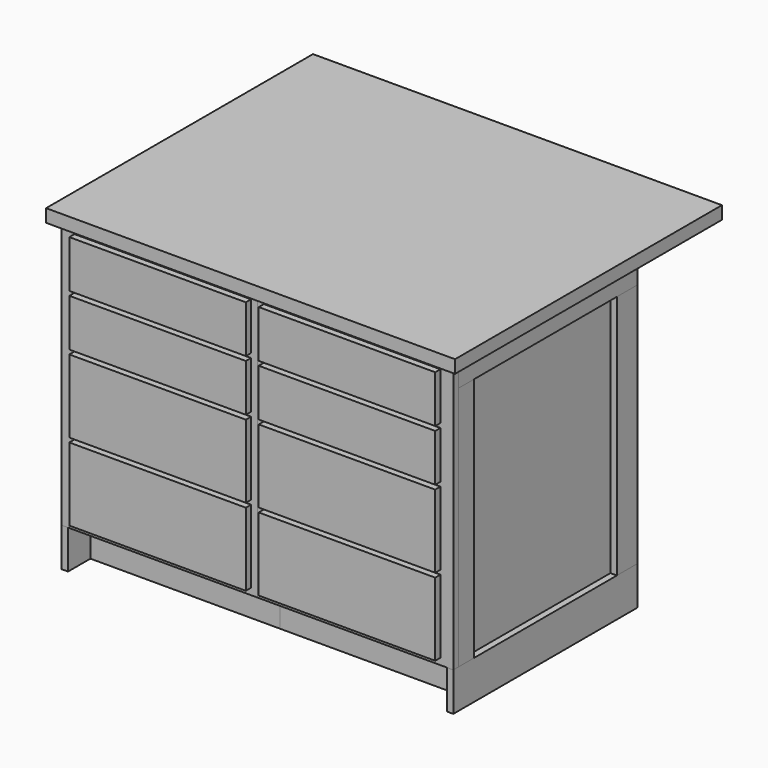
from build123d import *

# Parameters (mm, degrees)
F0_W      = 558.8
F0_H      = 660.4
F1_DEPTH  = 901.7
F2_DEPTH  = 901.7
F3_W      = 558.8
F3_H      = 114.3
F4_DEPTH  = 82.55
F5_W      = 19.05
F5_H      = 787.4
F6_DEPTH  = 19.05
F7_W      = 19.05
F7_H      = 787.4
F8_DEPTH  = 19.05
F9_W      = 19.05
F9_H      = 63.5
F9_H_2    = 114.3
F10_DEPTH = 19.05
F9_W_2    = 57.15
F9_H_3    = 723.9
F11_DEPTH = 19.05
F14_DEPTH = 19.05
F13_W     = 44.45
F13_H     = 723.9
F13_W_2   = 31.75
F15_DEPTH = 19.05
F16_W     = 1206.5
F16_H     = 984.25
F16_W_2   = 558.8
F16_H_2   = 660.4
F17_DEPTH = 38.1
F18_W     = 520.7
F18_H     = 139.7
F18_H_2   = 215.9
F19_DEPTH = 19.05


with BuildPart() as f1:
    # F0 (on Top) → F1 (new body)
    with BuildSketch(Plane.XY):
        with Locations((-279.4, -1.352771)):
            Rectangle(F0_W, F0_H)
    extrude(amount=-F1_DEPTH)


with BuildPart() as f2:
    # F0 (on Top) → F2 (new body)
    with BuildSketch(Plane.XY):
        with Locations((279.4, -1.352771)):
            Rectangle(F0_W, F0_H)
    extrude(amount=-F2_DEPTH)


with BuildPart() as f4_tool:
    # F3 (on face) → F4 (new body)
    with BuildSketch(Plane.XZ.offset(331.552771)):
        with Locations((-279.4, -844.55)):
            Rectangle(F3_W, F3_H)
        with Locations((279.4, -844.55)):
            Rectangle(F3_W, F3_H)
    extrude(amount=-F4_DEPTH)


with BuildPart() as f1_1:
    add(f1.part)

    # F4: cut by f4_tool
    add(f4_tool.part, mode=Mode.SUBTRACT)

    # F5 (on face) → F6 (join)
    with BuildSketch(Plane(origin=(-558.8, 0, 0), x_dir=(0, -1, 0), z_dir=(-1, 0, 0))):
        with Locations((322.027771, -393.7)):
            Rectangle(F5_W, F5_H)
    extrude(amount=F6_DEPTH)


with BuildPart() as f2_1:
    add(f2.part)

    # F4: cut by f4_tool
    add(f4_tool.part, mode=Mode.SUBTRACT)

    # F7 (on face) → F8 (join)
    with BuildSketch(Plane.YZ.offset(558.8)):
        with Locations((-322.027771, -393.7)):
            Rectangle(F7_W, F7_H)
    extrude(amount=F8_DEPTH)


with BuildPart() as f10:
    # F9 (on face) → F10 (new body)
    with BuildSketch(Plane(origin=(-558.8, 0, 0), x_dir=(0, -1, 0), z_dir=(-1, 0, 0))):
        Polygon((-328.847229, -901.7), (249.002771, -901.7), (249.002771, -787.4), (-271.697229, -787.4), (-328.847229, -787.4), align=None)
        with Locations((-338.372229, -31.75)):
            Rectangle(F9_W, F9_H)
        Polygon((255.352771, -63.5), (312.502771, -63.5), (312.502771, 0), (-328.847229, 0), (-328.847229, -63.5), (-271.697229, -63.5), align=None)
        with Locations((-338.372229, -844.55)):
            Rectangle(F9_W, F9_H_2)
        Polygon((249.002771, -901.7), (331.552771, -901.7), (331.552771, -787.4), (312.502771, -787.4), (255.352771, -787.4), (249.002771, -787.4), align=None)
    extrude(amount=F10_DEPTH)


with BuildPart() as f11:
    # F9 (on face) → F11 (new body)
    with BuildSketch(Plane(origin=(-558.8, 0, 0), x_dir=(0, -1, 0), z_dir=(-1, 0, 0))):
        with Locations((-300.272229, -425.45)):
            Rectangle(F9_W_2, F9_H_3)
        with Locations((-338.372229, -425.45)):
            Rectangle(F9_W, F9_H_3)
        with Locations((283.927771, -425.45)):
            Rectangle(F9_W_2, F9_H_3)
    extrude(amount=F11_DEPTH)


with BuildPart() as f12_1:
    # F12: instance of F10
    add(f10.part.mirror(Plane.YZ))


with BuildPart() as f12_2:
    # F12: instance of F11
    add(f11.part.mirror(Plane.YZ))


with BuildPart() as f14:
    # F13 (on face) → F14 (new body)
    with BuildSketch(Plane(origin=(0, 328.847229, 0), x_dir=(-1, 0, 0), z_dir=(0, 1, 0))):
        Polygon((0, 0), (-558.8, 0), (-558.8, -63.5), (-514.35, -63.5), (-31.75, -63.5), (0, -63.5), align=None)
        Polygon((558.8, 0), (0, 0), (0, -63.5), (31.75, -63.5), (514.35, -63.5), (558.8, -63.5), align=None)
        Polygon((-514.35, -787.4), (-558.8, -787.4), (-558.8, -901.7), (0, -901.7), (0, -787.4), (-31.75, -787.4), align=None)
        Polygon((31.75, -787.4), (0, -787.4), (0, -901.7), (558.8, -901.7), (558.8, -787.4), (514.35, -787.4), align=None)
    extrude(amount=F14_DEPTH)


with BuildPart() as f15:
    # F13 (on face) → F15 (new body)
    with BuildSketch(Plane(origin=(0, 328.847229, 0), x_dir=(-1, 0, 0), z_dir=(0, 1, 0))):
        with Locations((-536.575, -425.45)):
            Rectangle(F13_W, F13_H)
        with Locations((15.875, -425.45)):
            Rectangle(F13_W_2, F13_H)
        with Locations((-15.875, -425.45)):
            Rectangle(F13_W_2, F13_H)
        with Locations((536.575, -425.45)):
            Rectangle(F13_W, F13_H)
    extrude(amount=F15_DEPTH)


with BuildPart() as f17:
    # F16 (on face) → F17 (new body)
    with BuildSketch(Plane.XY):
        with Locations((0, 135.172229)):
            Rectangle(F16_W, F16_H)
        with Locations((-279.4, -1.352771)):
            Rectangle(F16_W_2, F16_H_2, mode=Mode.SUBTRACT)
        with Locations((-279.4, -1.352771)):
            Rectangle(F16_W_2, F16_H_2)
    extrude(amount=F17_DEPTH)


with BuildPart() as f19:
    # F18 (on face) → F19 (new body)
    with BuildSketch(Plane.XZ.offset(331.552771)):
        with Locations((-279.4, -88.9)):
            Rectangle(F18_W, F18_H)
        with Locations((279.4, -88.9)):
            Rectangle(F18_W, F18_H)
        with Locations((279.4, -241.3)):
            Rectangle(F18_W, F18_H)
        with Locations((-279.4, -241.3)):
            Rectangle(F18_W, F18_H)
        with Locations((-279.4, -431.8)):
            Rectangle(F18_W, F18_H_2)
        with Locations((279.4, -431.8)):
            Rectangle(F18_W, F18_H_2)
        with Locations((279.4, -660.4)):
            Rectangle(F18_W, F18_H_2)
        with Locations((-279.4, -660.4)):
            Rectangle(F18_W, F18_H_2)
    extrude(amount=F19_DEPTH)


solid = Compound([f1_1.part, f2_1.part, f10.part, f11.part, f12_1.part, f12_2.part, f14.part, f15.part, f17.part, f19.part])
